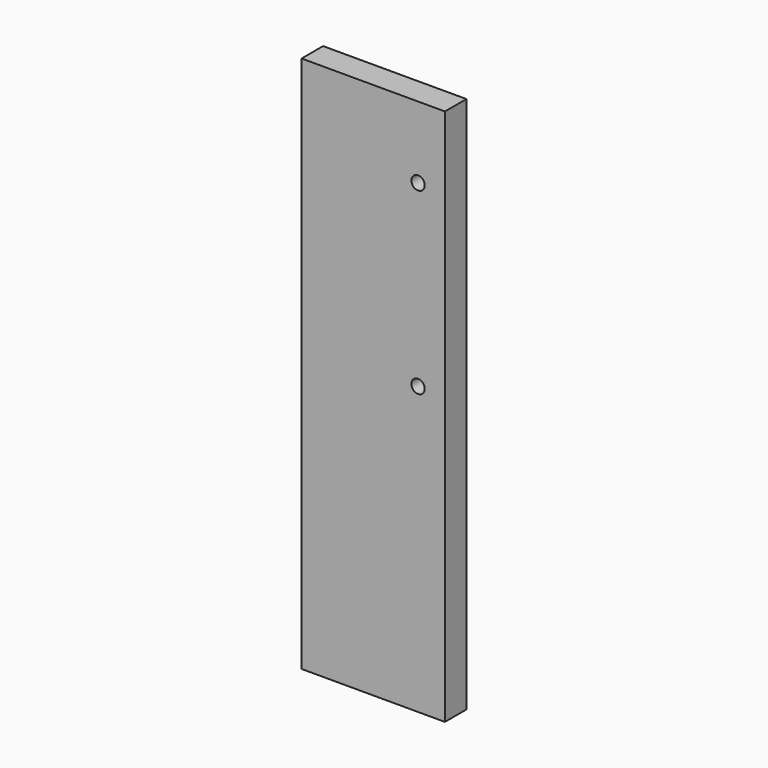
from build123d import *

# Parameters (mm, degrees)
F0_W     = 101.6
F0_H     = 381
F0_R     = 4.7625
F1_DEPTH = 9.525


with BuildPart() as f1:
    # F0 (on Front) → F1 (new body, symmetric)
    with BuildSketch(Plane.XZ):
        Rectangle(F0_W, F0_H)
        with Locations((31.75, 12.7)):
            Circle(F0_R, mode=Mode.SUBTRACT)
        with Locations((31.75, 139.7)):
            Circle(F0_R, mode=Mode.SUBTRACT)
    extrude(amount=F1_DEPTH, both=True)


solid = f1.part
